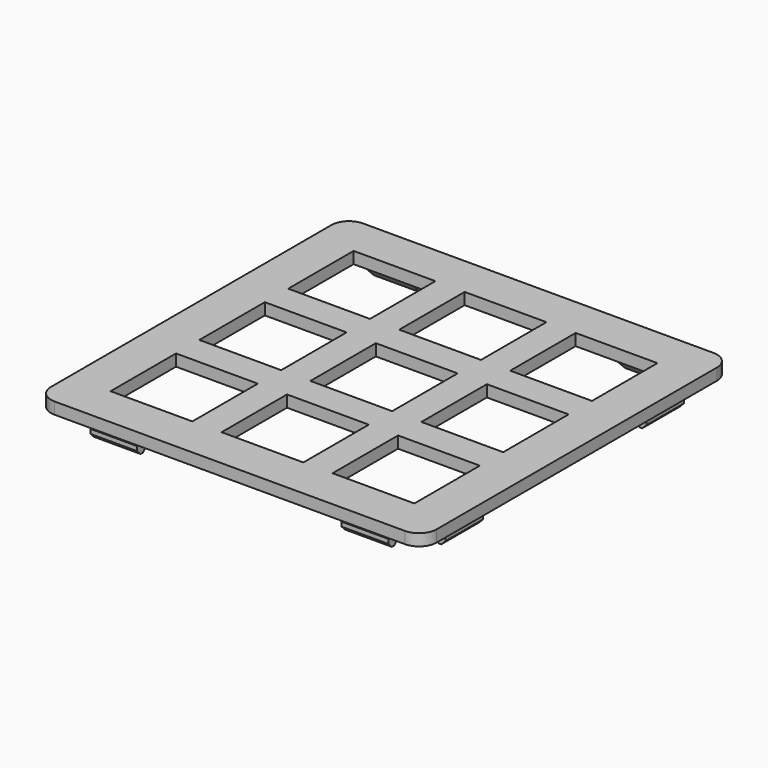
from build123d import *

# Parameters (mm, degrees)
SKETCH_W        = 14
SKETCH_H        = 14
PAD_DEPTH       = 2
SKETCH004_W     = 8
SKETCH004_H     = 3
SKETCH004_W_2   = 3
SKETCH004_H_2   = 8
PAD003_DEPTH    = 3
SKETCH005_W     = 8
SKETCH005_H     = 1.5
PAD004_DEPTH    = 1
SKETCH008_W     = 8
SKETCH008_H     = 1.5
PAD005_DEPTH    = 1
SKETCH007_W     = 8
SKETCH007_H     = 1.5
PAD006_DEPTH    = 1
SKETCH006_W     = 8
SKETCH006_H     = 1.5
PAD007_DEPTH    = 1
CHAMFER_SIZE    = 2.75
CHAMFER001_SIZE = 0.75


with BuildPart() as part:
    # Sketch → Pad (new body)
    with BuildSketch(Plane.XY):
        with BuildLine():
            Line((-30, 33), (30, 33))
            ThreePointArc((33, 30), (32.12132, 32.12132), (30, 33))
            Line((33, 30), (33, -30))
            ThreePointArc((30, -33), (32.12132, -32.12132), (33, -30))
            Line((30, -33), (-30, -33))
            ThreePointArc((-33, -30), (-32.12132, -32.12132), (-30, -33))
            Line((-33, -30), (-33, 30))
            ThreePointArc((-30, 33), (-32.12132, 32.12132), (-33, 30))
        make_face()
        Rectangle(SKETCH_W, SKETCH_H, mode=Mode.SUBTRACT)
        with Locations((19, 0)):
            Rectangle(SKETCH_W, SKETCH_H, mode=Mode.SUBTRACT)
        with Locations((-19, 0)):
            Rectangle(SKETCH_W, SKETCH_H, mode=Mode.SUBTRACT)
        with Locations((0, 19)):
            Rectangle(SKETCH_W, SKETCH_H, mode=Mode.SUBTRACT)
        with Locations((19, 19)):
            Rectangle(SKETCH_W, SKETCH_H, mode=Mode.SUBTRACT)
        with Locations((-19, 19)):
            Rectangle(SKETCH_W, SKETCH_H, mode=Mode.SUBTRACT)
        with Locations((0, -19)):
            Rectangle(SKETCH_W, SKETCH_H, mode=Mode.SUBTRACT)
        with Locations((19, -19)):
            Rectangle(SKETCH_W, SKETCH_H, mode=Mode.SUBTRACT)
        with Locations((-19, -19)):
            Rectangle(SKETCH_W, SKETCH_H, mode=Mode.SUBTRACT)
    extrude(amount=PAD_DEPTH)

    # Sketch004 (on DatumPlane) → Pad003 (join)
    with BuildSketch(Plane(origin=(0, 0, 0), x_dir=(1, 0, 0), z_dir=(0, 0, -1))):
        with Locations((-21.5, -28.45)):
            Rectangle(SKETCH004_W, SKETCH004_H)
        with Locations((-28.45, -21.5)):
            Rectangle(SKETCH004_W_2, SKETCH004_H_2)
        with Locations((21.5, -28.45)):
            Rectangle(SKETCH004_W, SKETCH004_H)
        with Locations((28.45, -21.5)):
            Rectangle(SKETCH004_W_2, SKETCH004_H_2)
        with Locations((-28.45, 21.5)):
            Rectangle(SKETCH004_W_2, SKETCH004_H_2)
        with Locations((28.45, 21.5)):
            Rectangle(SKETCH004_W_2, SKETCH004_H_2)
        with Locations((-21.5, 28.45)):
            Rectangle(SKETCH004_W, SKETCH004_H)
        with Locations((21.5, 28.45)):
            Rectangle(SKETCH004_W, SKETCH004_H)
    extrude(amount=PAD003_DEPTH)

    # Sketch005 (on Face43 of Pad003) → Pad004 (join)
    with BuildSketch(Plane.YZ.offset(29.95)):
        with Locations((-21.5, -2.25)):
            Rectangle(SKETCH005_W, SKETCH005_H)
        with Locations((21.5, -2.25)):
            Rectangle(SKETCH005_W, SKETCH005_H)
    extrude(amount=PAD004_DEPTH)

    # Sketch008 (on Face11 of Pad003) → Pad005 (join)
    with BuildSketch(Plane.XZ.offset(29.95)):
        with Locations((-21.5, -2.25)):
            Rectangle(SKETCH008_W, SKETCH008_H)
        with Locations((21.5, -2.25)):
            Rectangle(SKETCH008_W, SKETCH008_H)
    extrude(amount=PAD005_DEPTH)

    # Sketch007 (on Face51 of Pad003) → Pad006 (join)
    with BuildSketch(Plane(origin=(-29.95, 0, 0), x_dir=(0, -1, 0), z_dir=(-1, 0, 0))):
        with Locations((-21.5, -2.25)):
            Rectangle(SKETCH007_W, SKETCH007_H)
        with Locations((21.5, -2.25)):
            Rectangle(SKETCH007_W, SKETCH007_H)
    extrude(amount=PAD006_DEPTH)

    # Sketch006 (on Face75 of Pad003) → Pad007 (join)
    with BuildSketch(Plane(origin=(0, 29.95, 0), x_dir=(-1, 0, 0), z_dir=(0, 1, 0))):
        with Locations((-21.5, -2.25)):
            Rectangle(SKETCH006_W, SKETCH006_H)
        with Locations((21.5, -2.25)):
            Rectangle(SKETCH006_W, SKETCH006_H)
    extrude(amount=PAD007_DEPTH)

    # Chamfer
    chamfer_edges = [part.edges().sort_by_distance(p)[0] for p in [
        (-26.95, -21.5, -3),
        (-21.5, -26.95, -3),
        (21.5, -26.95, -3),
        (26.95, -21.5, -3),
        (-26.95, 21.5, -3),
        (-21.5, 26.95, -3),
        (21.5, 26.95, -3),
        (26.95, 21.5, -3),
    ]]
    chamfer(chamfer_edges, length=CHAMFER_SIZE)

    # Chamfer001
    chamfer001_edges = [part.edges().sort_by_distance(p)[0] for p in [
        (30.95, 21.5, -3),
        (21.5, 30.95, -3),
        (-21.5, 30.95, -3),
        (-30.95, 21.5, -3),
        (-30.95, -21.5, -3),
        (-21.5, -30.95, -3),
        (21.5, -30.95, -3),
        (30.95, -21.5, -3),
    ]]
    chamfer(chamfer001_edges, length=CHAMFER001_SIZE)


solid = part.part
